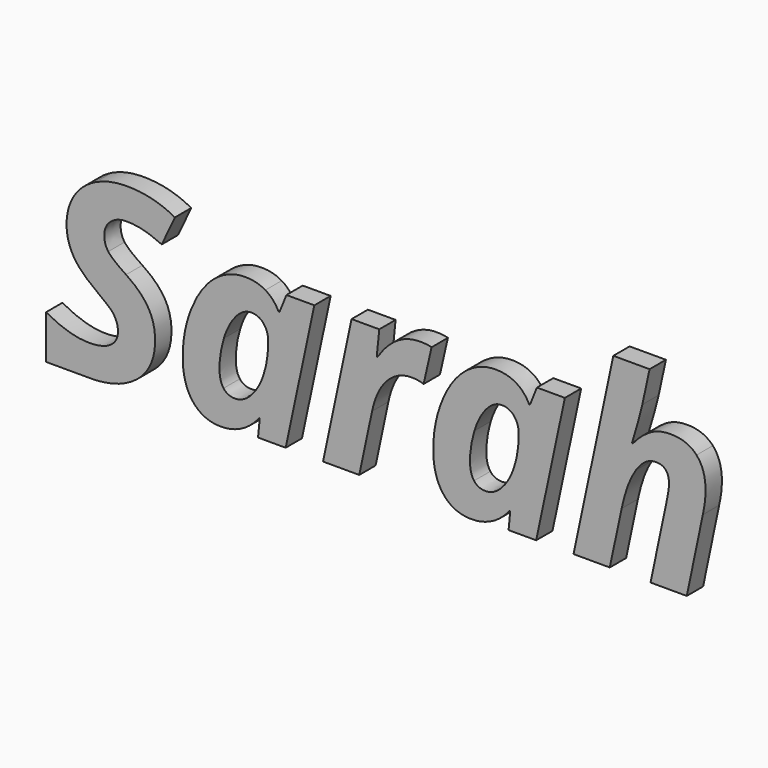
from build123d import *

# Parameters (mm, degrees)
F1_DEPTH = 3


with BuildPart() as f1:
    # F0 (on Front) → F1 (new body)
    with BuildSketch(Plane.XZ):
        with BuildLine():
            Line((-99.7860431671, 21.1865802839), (-99.7860431671, 19.6015536785))
            Line((-99.7860431671, 19.6015536785), (-94.1306638868, 19.6015536785))
            add(Edge.make_bspline(
                [(-94.1306638868, 19.6015536785), (-97.5967533651, 19.7248151063), (-99.7860431671, 21.1865802839)],
                knots=[0.0842807296, 0.0842807296, 0.0842807296, 0.9994905779, 0.9994905779, 0.9994905779], degree=2))
        make_face()
        with BuildLine():
            add(Edge.make_bspline(
                [(-37.6882647872, 19.6015536785), (-40.0133085857, 19.736556484), (-41.3932853162, 21.477208951)],
                knots=[0.0775587362, 0.0775587362, 0.0775587362, 1, 1, 1], degree=2))
            Line((-37.6882647872, 19.6015536785), (-36.8859572411, 19.6015536785))
            add(Edge.make_bspline(
                [(-31.640919475, 22.5142124077), (-33.8673256578, 19.7723852232), (-36.8859572411, 19.6015536785)],
                knots=[0, 0, 0, 0.9376942699, 0.9376942699, 0.9376942699], degree=2))
            Line((-31.640919475, 22.5142124077), (-31.5729192484, 22.5142124077))
            Line((-31.5729192484, 22.5142124077), (-31.8222534128, 19.947203851))
            Line((-31.8222534128, 19.947203851), (-27.764906555, 19.947203851))
            Line((-27.764906555, 19.947203851), (-23.5488925016, 39.7466031823))
            Line((-23.5488925016, 39.7466031823), (-27.6572395294, 39.7466031823))
            Line((-27.6572395294, 39.7466031823), (-28.6659095583, 37.2135947389))
            Line((-28.6659095583, 37.2135947389), (-28.8075766972, 37.2135947389))
            add(Edge.make_bspline(
                [(-30.7484165, 39.3726019356), (-29.498912335, 38.6302661278), (-28.8075766972, 37.2135947389)],
                knots=[0, 0, 0, 1, 1, 1], degree=2))
            add(Edge.make_bspline(
                [(-33.7149263884, 40.1149377434), (-31.997920665, 40.1149377434), (-30.7484165, 39.3726019356)],
                knots=[0, 0, 0, 1, 1, 1], degree=2))
            add(Edge.make_bspline(
                [(-38.2652748895, 38.372431935), (-36.1912679762, 40.1149377434), (-33.7149263884, 40.1149377434)],
                knots=[0, 0, 0, 1, 1, 1], degree=2))
            add(Edge.make_bspline(
                [(-41.6142860529, 33.45091553), (-40.3392818029, 36.6299261267), (-38.2652748895, 38.372431935)],
                knots=[0, 0, 0, 1, 1, 1], degree=2))
            add(Edge.make_bspline(
                [(-42.8892903029, 26.7642265744), (-42.8892903029, 30.2719049333), (-41.6142860529, 33.45091553)],
                knots=[0, 0, 0, 1, 1, 1], degree=2))
            add(Edge.make_bspline(
                [(-41.3932853162, 21.477208951), (-42.8892903029, 23.364215241), (-42.8892903029, 26.7642265744)],
                knots=[0, 0, 0, 1, 1, 1], degree=2))
        make_face()
        with BuildLine():
            add(Edge.make_bspline(
                [(-35.1995980039, 23.8968836832), (-33.9812606095, 23.8968836832), (-32.8479234984, 25.0840543071)],
                knots=[0, 0, 0, 1, 1, 1], degree=2))
            add(Edge.make_bspline(
                [(-36.8939369851, 24.6760529471), (-36.2989350017, 23.8968836832), (-35.1995980039, 23.8968836832)],
                knots=[0, 0, 0, 1, 1, 1], degree=2))
            add(Edge.make_bspline(
                [(-37.4889389684, 27.0135607388), (-37.4889389684, 25.455222211), (-36.8939369851, 24.6760529471)],
                knots=[0, 0, 0, 1, 1, 1], degree=2))
            add(Edge.make_bspline(
                [(-36.8401034723, 31.15590788), (-37.4889389684, 29.0649009099), (-37.4889389684, 27.0135607388)],
                knots=[0, 0, 0, 1, 1, 1], degree=2))
            add(Edge.make_bspline(
                [(-35.1032643495, 34.5219191), (-36.1912679762, 33.24691485), (-36.8401034723, 31.15590788)],
                knots=[0, 0, 0, 1, 1, 1], degree=2))
            add(Edge.make_bspline(
                [(-32.813923385, 35.79692335), (-34.0152607228, 35.79692335), (-35.1032643495, 34.5219191)],
                knots=[0, 0, 0, 1, 1, 1], degree=2))
            add(Edge.make_bspline(
                [(-31.0147507211, 34.9724206017), (-31.6975863306, 35.79692335), (-32.813923385, 35.79692335)],
                knots=[0, 0, 0, 1, 1, 1], degree=2))
            add(Edge.make_bspline(
                [(-30.3319151117, 32.88991366), (-30.3319151117, 34.1479178533), (-31.0147507211, 34.9724206017)],
                knots=[0, 0, 0, 1, 1, 1], degree=2))
            add(Edge.make_bspline(
                [(-31.0232507495, 28.2970650172), (-30.3319151117, 30.3229051033), (-30.3319151117, 32.88991366)],
                knots=[0, 0, 0, 1, 1, 1], degree=2))
            add(Edge.make_bspline(
                [(-32.8479234984, 25.0840543071), (-31.7145863872, 26.271224931), (-31.0232507495, 28.2970650172)],
                knots=[0, 0, 0, 1, 1, 1], degree=2))
        make_face(mode=Mode.SUBTRACT)
        with BuildLine():
            Line((-36.8859572411, 19.6015536785), (-37.6882647872, 19.6015536785))
            add(Edge.make_bspline(
                [(-37.290604974, 19.590202661), (-37.4927754203, 19.590202661), (-37.6882647872, 19.6015536785)],
                knots=[0, 0, 0, 0.0775587362, 0.0775587362, 0.0775587362], degree=2))
            add(Edge.make_bspline(
                [(-36.8859572411, 19.6015536785), (-37.0865322589, 19.590202661), (-37.290604974, 19.590202661)],
                knots=[0.9376942699, 0.9376942699, 0.9376942699, 1, 1, 1], degree=2))
        make_face()
        with BuildLine():
            add(Edge.make_bspline(
                [(-74.5047208421, 19.6015536785), (-76.8297646406, 19.736556484), (-78.2097413711, 21.477208951)],
                knots=[0.0775587362, 0.0775587362, 0.0775587362, 1, 1, 1], degree=2))
            Line((-74.5047208421, 19.6015536785), (-73.702413296, 19.6015536785))
            add(Edge.make_bspline(
                [(-68.4573755299, 22.5142124077), (-70.6837817126, 19.7723852232), (-73.702413296, 19.6015536785)],
                knots=[0, 0, 0, 0.9376942699, 0.9376942699, 0.9376942699], degree=2))
            Line((-68.4573755299, 22.5142124077), (-68.3893753032, 22.5142124077))
            Line((-68.3893753032, 22.5142124077), (-68.6387094677, 19.947203851))
            Line((-68.6387094677, 19.947203851), (-64.5813626098, 19.947203851))
            Line((-64.5813626098, 19.947203851), (-60.3653485564, 39.7466031823))
            Line((-60.3653485564, 39.7466031823), (-64.4736955843, 39.7466031823))
            Line((-64.4736955843, 39.7466031823), (-65.4823656132, 37.2135947389))
            Line((-65.4823656132, 37.2135947389), (-65.6240327521, 37.2135947389))
            add(Edge.make_bspline(
                [(-67.5648725549, 39.3726019356), (-66.3153683898, 38.6302661278), (-65.6240327521, 37.2135947389)],
                knots=[0, 0, 0, 1, 1, 1], degree=2))
            add(Edge.make_bspline(
                [(-70.5313824432, 40.1149377434), (-68.8143767199, 40.1149377434), (-67.5648725549, 39.3726019356)],
                knots=[0, 0, 0, 1, 1, 1], degree=2))
            add(Edge.make_bspline(
                [(-75.0817309444, 38.372431935), (-73.007724031, 40.1149377434), (-70.5313824432, 40.1149377434)],
                knots=[0, 0, 0, 1, 1, 1], degree=2))
            add(Edge.make_bspline(
                [(-78.4307421078, 33.45091553), (-77.1557378577, 36.6299261267), (-75.0817309444, 38.372431935)],
                knots=[0, 0, 0, 1, 1, 1], degree=2))
            add(Edge.make_bspline(
                [(-79.7057463578, 26.7642265744), (-79.7057463578, 30.2719049333), (-78.4307421078, 33.45091553)],
                knots=[0, 0, 0, 1, 1, 1], degree=2))
            add(Edge.make_bspline(
                [(-78.2097413711, 21.477208951), (-79.7057463578, 23.364215241), (-79.7057463578, 26.7642265744)],
                knots=[0, 0, 0, 1, 1, 1], degree=2))
        make_face()
        with BuildLine():
            add(Edge.make_bspline(
                [(-72.0160540588, 23.8968836832), (-70.7977166643, 23.8968836832), (-69.6643795532, 25.0840543071)],
                knots=[0, 0, 0, 1, 1, 1], degree=2))
            add(Edge.make_bspline(
                [(-73.7103930399, 24.6760529471), (-73.1153910566, 23.8968836832), (-72.0160540588, 23.8968836832)],
                knots=[0, 0, 0, 1, 1, 1], degree=2))
            add(Edge.make_bspline(
                [(-74.3053950233, 27.0135607388), (-74.3053950233, 25.455222211), (-73.7103930399, 24.6760529471)],
                knots=[0, 0, 0, 1, 1, 1], degree=2))
            add(Edge.make_bspline(
                [(-73.6565595272, 31.15590788), (-74.3053950233, 29.0649009099), (-74.3053950233, 27.0135607388)],
                knots=[0, 0, 0, 1, 1, 1], degree=2))
            add(Edge.make_bspline(
                [(-71.9197204044, 34.5219191), (-73.007724031, 33.24691485), (-73.6565595272, 31.15590788)],
                knots=[0, 0, 0, 1, 1, 1], degree=2))
            add(Edge.make_bspline(
                [(-69.6303794399, 35.79692335), (-70.8317167777, 35.79692335), (-71.9197204044, 34.5219191)],
                knots=[0, 0, 0, 1, 1, 1], degree=2))
            add(Edge.make_bspline(
                [(-67.831206776, 34.9724206017), (-68.5140423854, 35.79692335), (-69.6303794399, 35.79692335)],
                knots=[0, 0, 0, 1, 1, 1], degree=2))
            add(Edge.make_bspline(
                [(-67.1483711665, 32.88991366), (-67.1483711665, 34.1479178533), (-67.831206776, 34.9724206017)],
                knots=[0, 0, 0, 1, 1, 1], degree=2))
            add(Edge.make_bspline(
                [(-67.8397068043, 28.2970650172), (-67.1483711665, 30.3229051033), (-67.1483711665, 32.88991366)],
                knots=[0, 0, 0, 1, 1, 1], degree=2))
            add(Edge.make_bspline(
                [(-69.6643795532, 25.0840543071), (-68.5310424421, 26.271224931), (-67.8397068043, 28.2970650172)],
                knots=[0, 0, 0, 1, 1, 1], degree=2))
        make_face(mode=Mode.SUBTRACT)
        with BuildLine():
            Line((-73.702413296, 19.6015536785), (-74.5047208421, 19.6015536785))
            add(Edge.make_bspline(
                [(-74.1070610288, 19.590202661), (-74.3092314751, 19.590202661), (-74.5047208421, 19.6015536785)],
                knots=[0, 0, 0, 0.0775587362, 0.0775587362, 0.0775587362], degree=2))
            add(Edge.make_bspline(
                [(-73.702413296, 19.6015536785), (-73.9029883138, 19.590202661), (-74.1070610288, 19.590202661)],
                knots=[0.9376942699, 0.9376942699, 0.9376942699, 1, 1, 1], degree=2))
        make_face()
        with BuildLine():
            add(Edge.make_bspline(
                [(-94.1306638868, 19.6015536785), (-97.5967533651, 19.7248151063), (-99.7860431671, 21.1865802839)],
                knots=[0.0842807296, 0.0842807296, 0.0842807296, 0.9994905779, 0.9994905779, 0.9994905779], degree=2))
            Line((-94.1306638868, 19.6015536785), (-92.8411910085, 19.6015536785))
            add(Edge.make_bspline(
                [(-86.3839352851, 21.7435431721), (-88.8144935204, 19.7465439733), (-92.8411910085, 19.6015536785)],
                knots=[0, 0, 0, 0.9273959174, 0.9273959174, 0.9273959174], degree=2))
            add(Edge.make_bspline(
                [(-83.7630932156, 27.597229351), (-83.7630932156, 23.8968836832), (-86.3839352851, 21.7435431721)],
                knots=[0, 0, 0, 1, 1, 1], degree=2))
            add(Edge.make_bspline(
                [(-84.8255967573, 31.589409325), (-83.7630932156, 29.88090363), (-83.7630932156, 27.597229351)],
                knots=[0, 0, 0, 1, 1, 1], degree=2))
            add(Edge.make_bspline(
                [(-88.030107439, 34.7145864089), (-85.888100299, 33.29791502), (-84.8255967573, 31.589409325)],
                knots=[0, 0, 0, 1, 1, 1], degree=2))
            add(Edge.make_bspline(
                [(-90.6481161657, 36.8509268634), (-90.0644475534, 36.0462575145), (-88.030107439, 34.7145864089)],
                knots=[0, 0, 0, 1, 1, 1], degree=2))
            add(Edge.make_bspline(
                [(-91.2317847779, 38.7379331534), (-91.2317847779, 37.6555962123), (-90.6481161657, 36.8509268634)],
                knots=[0, 0, 0, 1, 1, 1], degree=2))
            add(Edge.make_bspline(
                [(-90.2939483184, 40.8431068373), (-91.2317847779, 40.0469375167), (-91.2317847779, 38.7379331534)],
                knots=[0, 0, 0, 1, 1, 1], degree=2))
            add(Edge.make_bspline(
                [(-87.8884403001, 41.6392761579), (-89.356111859, 41.6392761579), (-90.2939483184, 40.8431068373)],
                knots=[0, 0, 0, 1, 1, 1], degree=2))
            add(Edge.make_bspline(
                [(-82.7884233, 40.3302717945), (-85.5480991656, 41.6392761579), (-87.8884403001, 41.6392761579)],
                knots=[0, 0, 0, 1, 1, 1], degree=2))
            Line((-82.7884233, 40.3302717945), (-80.8560835256, 44.455618879))
            add(Edge.make_bspline(
                [(-87.8884403001, 46.2066247157), (-84.0464274934, 46.2066247157), (-80.8560835256, 44.455618879)],
                knots=[0, 0, 0, 1, 1, 1], degree=2))
            add(Edge.make_bspline(
                [(-92.5521225124, 45.2064547151), (-90.5234490835, 46.2066247157), (-87.8884403001, 46.2066247157)],
                knots=[0, 0, 0, 1, 1, 1], degree=2))
            add(Edge.make_bspline(
                [(-95.6801329391, 42.4099453934), (-94.5807959413, 44.2062847146), (-92.5521225124, 45.2064547151)],
                knots=[0, 0, 0, 1, 1, 1], degree=2))
            add(Edge.make_bspline(
                [(-96.7794699369, 38.3299317934), (-96.7794699369, 40.6136060723), (-95.6801329391, 42.4099453934)],
                knots=[0, 0, 0, 1, 1, 1], degree=2))
            add(Edge.make_bspline(
                [(-95.7877999646, 34.6295861256), (-96.7794699369, 36.3465918489), (-96.7794699369, 38.3299317934)],
                knots=[0, 0, 0, 1, 1, 1], degree=2))
            add(Edge.make_bspline(
                [(-92.3481218324, 31.15590788), (-94.7961299924, 32.9125804022), (-95.7877999646, 34.6295861256)],
                knots=[0, 0, 0, 1, 1, 1], degree=2))
            add(Edge.make_bspline(
                [(-90.1551145223, 29.3510685305), (-90.5971159957, 29.8469035166), (-92.3481218324, 31.15590788)],
                knots=[0, 0, 0, 1, 1, 1], degree=2))
            add(Edge.make_bspline(
                [(-89.4722789129, 28.2800649605), (-89.713113049, 28.8552335444), (-90.1551145223, 29.3510685305)],
                knots=[0, 0, 0, 1, 1, 1], degree=2))
            add(Edge.make_bspline(
                [(-89.2314447768, 26.9398938266), (-89.2314447768, 27.7048963766), (-89.4722789129, 28.2800649605)],
                knots=[0, 0, 0, 1, 1, 1], degree=2))
            add(Edge.make_bspline(
                [(-90.3477818312, 24.8800536271), (-89.2314447768, 25.6308894632), (-89.2314447768, 26.9398938266)],
                knots=[0, 0, 0, 1, 1, 1], degree=2))
            add(Edge.make_bspline(
                [(-93.4474588301, 24.129217791), (-91.4641188857, 24.129217791), (-90.3477818312, 24.8800536271)],
                knots=[0, 0, 0, 1, 1, 1], degree=2))
            add(Edge.make_bspline(
                [(-99.7884799669, 26.0388908232), (-96.3714685768, 24.129217791), (-93.4474588301, 24.129217791)],
                knots=[0, 0, 0, 1, 1, 1], degree=2))
            Line((-99.7884799669, 26.0388908232), (-99.7884799669, 21.1882079876))
            add(Edge.make_bspline(
                [(-99.7860431671, 21.1865802839), (-99.7872617648, 21.1873939284), (-99.7884799669, 21.1882079876)],
                knots=[0.9994905779, 0.9994905779, 0.9994905779, 1, 1, 1], degree=2))
        make_face()
        with BuildLine():
            Line((-92.8411910085, 19.6015536785), (-94.1306638868, 19.6015536785))
            add(Edge.make_bspline(
                [(-93.4814589435, 19.590202661), (-93.811475287, 19.590202661), (-94.1306638868, 19.6015536785)],
                knots=[0, 0, 0, 0.0842807296, 0.0842807296, 0.0842807296], degree=2))
            add(Edge.make_bspline(
                [(-92.8411910085, 19.6015536785), (-93.1564335835, 19.590202661), (-93.4814589435, 19.590202661)],
                knots=[0.9273959174, 0.9273959174, 0.9273959174, 1, 1, 1], degree=2))
        make_face()
        with BuildLine():
            add(Edge.make_bspline(
                [(-44.8386301341, 40.1149377434), (-43.7902933063, 40.1149377434), (-43.1386244674, 39.9222704345)],
                knots=[0, 0, 0, 1, 1, 1], degree=2))
            add(Edge.make_bspline(
                [(-51.0889843019, 36.0802576278), (-48.4823089463, 40.1149377434), (-44.8386301341, 40.1149377434)],
                knots=[0, 0, 0, 1, 1, 1], degree=2))
            Line((-51.0889843019, 36.0802576278), (-51.1966513275, 36.0802576278))
            Line((-51.1966513275, 36.0802576278), (-50.8226500808, 39.7466031823))
            Line((-50.8226500808, 39.7466031823), (-54.8969969953, 39.7466031823))
            Line((-54.8969969953, 39.7466031823), (-59.0903443064, 19.947203851))
            Line((-59.0903443064, 19.947203851), (-53.7636598842, 19.947203851))
            Line((-53.7636598842, 19.947203851), (-51.8823202797, 28.8042333744))
            add(Edge.make_bspline(
                [(-49.6808129413, 33.45091553), (-51.2306514408, 31.8302434611), (-51.8823202797, 28.8042333744)],
                knots=[0, 0, 0, 1, 1, 1], degree=2))
            add(Edge.make_bspline(
                [(-46.0739675852, 35.0715875989), (-48.1309744419, 35.0715875989), (-49.6808129413, 33.45091553)],
                knots=[0, 0, 0, 1, 1, 1], degree=2))
            add(Edge.make_bspline(
                [(-44.3059616918, 34.7882533211), (-45.1049643552, 35.0715875989), (-46.0739675852, 35.0715875989)],
                knots=[0, 0, 0, 1, 1, 1], degree=2))
            Line((-44.3059616918, 34.7882533211), (-43.1386244674, 39.9222704345))
        make_face()
        with BuildLine():
            Line((-10.957517197, 19.947203851), (-5.6308327747, 19.947203851))
            Line((-5.6308327747, 19.947203851), (-3.2734915836, 31.2295747922))
            add(Edge.make_bspline(
                [(-2.8654902236, 34.4142520745), (-2.8654902236, 33.1222477678), (-3.2734915836, 31.2295747922)],
                knots=[0, 0, 0, 1, 1, 1], degree=2))
            add(Edge.make_bspline(
                [(-4.2028280147, 38.6387661562), (-2.8654902236, 37.1625945689), (-2.8654902236, 34.4142520745)],
                knots=[0, 0, 0, 1, 1, 1], degree=2))
            add(Edge.make_bspline(
                [(-7.9825072803, 40.1149377434), (-5.5401658058, 40.1149377434), (-4.2028280147, 38.6387661562)],
                knots=[0, 0, 0, 1, 1, 1], degree=2))
            add(Edge.make_bspline(
                [(-11.1020176787, 39.2932683378), (-9.7561798592, 40.1149377434), (-7.9825072803, 40.1149377434)],
                knots=[0, 0, 0, 1, 1, 1], degree=2))
            add(Edge.make_bspline(
                [(-13.5471924959, 37.1059277134), (-12.4478554981, 38.4715989323), (-11.1020176787, 39.2932683378)],
                knots=[0, 0, 0, 1, 1, 1], degree=2))
            Line((-13.5471924959, 37.1059277134), (-13.6888596348, 37.1059277134))
            add(Edge.make_bspline(
                [(-12.1645212204, 42.5799459601), (-12.538522467, 40.8629402367), (-13.6888596348, 37.1059277134)],
                knots=[0, 0, 0, 1, 1, 1], degree=2))
            add(Edge.make_bspline(
                [(-11.0991843359, 47.5042957079), (-11.7905199737, 44.2969516834), (-12.1645212204, 42.5799459601)],
                knots=[0, 0, 0, 1, 1, 1], degree=2))
            Line((-11.0991843359, 47.5042957079), (-16.4315354437, 47.5042957079))
            Line((-16.4315354437, 47.5042957079), (-22.2738882516, 19.947203851))
            Line((-22.2738882516, 19.947203851), (-16.9472038293, 19.947203851))
            Line((-16.9472038293, 19.947203851), (-15.2075313637, 28.1468978499))
            add(Edge.make_bspline(
                [(-13.1193577365, 33.7767499494), (-14.4481954993, 31.7565765489), (-15.2075313637, 28.1468978499)],
                knots=[0, 0, 0, 1, 1, 1], degree=2))
            add(Edge.make_bspline(
                [(-10.1641812192, 35.79692335), (-11.7905199737, 35.79692335), (-13.1193577365, 33.7767499494)],
                knots=[0, 0, 0, 1, 1, 1], degree=2))
            add(Edge.make_bspline(
                [(-8.2488415014, 33.6209160967), (-8.2488415014, 35.79692335), (-10.1641812192, 35.79692335)],
                knots=[0, 0, 0, 1, 1, 1], degree=2))
            add(Edge.make_bspline(
                [(-8.5321757792, 31.51290907), (-8.2488415014, 32.7142464078), (-8.2488415014, 33.6209160967)],
                knots=[0, 0, 0, 1, 1, 1], degree=2))
            Line((-8.5321757792, 31.51290907), (-10.957517197, 19.947203851))
        make_face()
    extrude(amount=F1_DEPTH)


solid = f1.part
